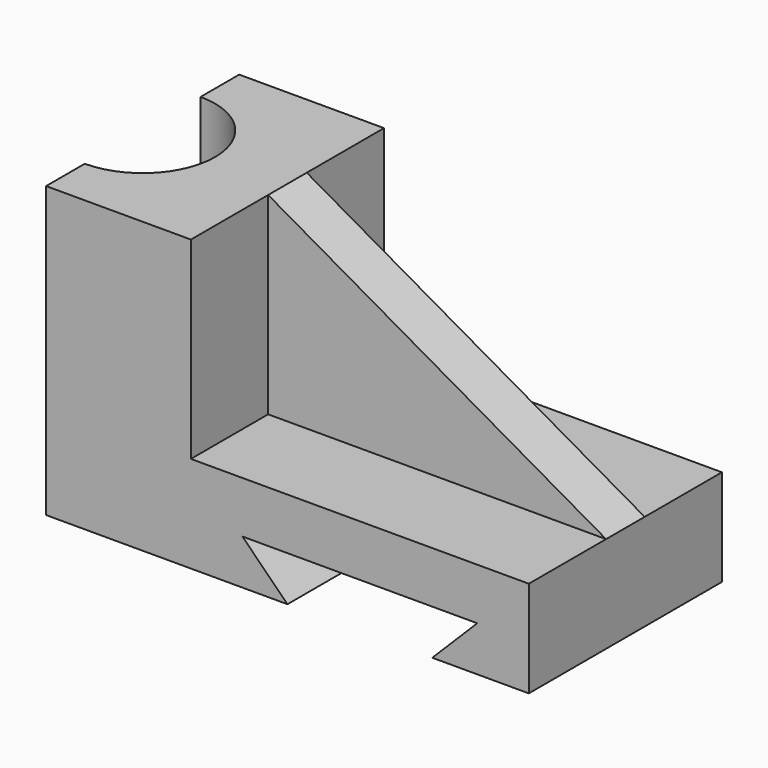
from build123d import *

# Parameters (mm, degrees)
F1_DEPTH = 12.7
F0_W     = 76.2
F0_H     = 101.6
F2_DEPTH = 63.5
F4_D     = 76.2


with BuildPart() as f1:
    # F0 (on Front) → F1 (new body, symmetric)
    with BuildSketch(Plane.XZ):
        Polygon((146.07237, -15.042048), (-31.72763, 86.557952), (-31.72763, -15.042048), align=None)
    extrude(amount=F1_DEPTH, both=True)

    # F0 (on Front) → F2 (join, symmetric)
    with BuildSketch(Plane.XZ):
        with Locations((-69.82763, 35.757952)):
            Rectangle(F0_W, F0_H)
        Polygon((146.07237, -65.842048), (146.07237, -15.042048), (-31.72763, -15.042048), (-107.92763, -15.042048), (-107.92763, -65.842048), (19.07237, -65.842048), (-4.595719, -42.173959), (118.940459, -42.173959), (95.27237, -65.842048), align=None)
    extrude(amount=F2_DEPTH, both=True)

    # F4 (through all)
    with Locations(Plane.XY.offset(86.557952)):
        with Locations((-107.92763, 0)):
            Hole(F4_D / 2)


solid = f1.part
